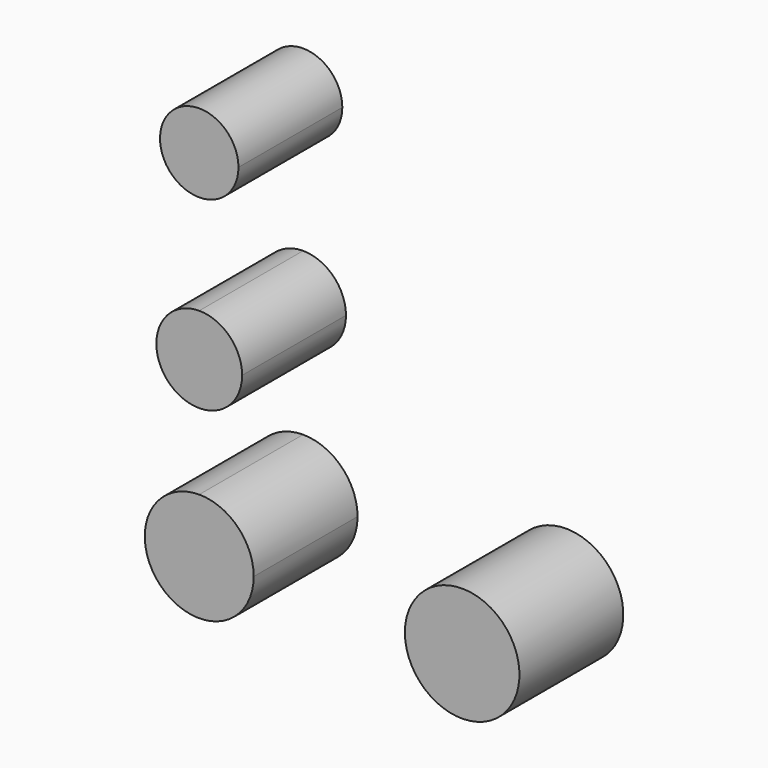
from build123d import *

# Parameters (mm, degrees)
F1_DEPTH = 25.4


with BuildPart() as f1:
    # F0 (on Front) → F1 (new body)
    with BuildSketch(Plane.XZ):
        with BuildLine():
            ThreePointArc((11.207146, -14.010969), (0, -2.803823), (-11.207146, -14.010969))
            ThreePointArc((-11.207146, -14.010969), (0, -25.218115), (11.207146, -14.010969))
        make_face()
        with BuildLine():
            ThreePointArc((-40.779477, -14.010969), (-43.900408, -6.476375), (-51.435001, -3.355445))
            Line((-51.435001, -3.355445), (-51.435001, -14.010969))
            Line((-51.435001, -14.010969), (-40.779477, -14.010969))
        make_face()
        with BuildLine():
            Line((-51.435001, -14.010969), (-51.435001, -3.355445))
            ThreePointArc((-51.435001, -3.355445), (-58.969595, -21.545562), (-40.779477, -14.010969))
            Line((-40.779477, -14.010969), (-51.435001, -14.010969))
        make_face()
        with BuildLine():
            ThreePointArc((-43.046736, 19.910323), (-45.503602, 25.841721), (-51.435001, 28.298587))
            Line((-51.435001, 28.298587), (-51.435001, 19.910323))
            Line((-51.435001, 19.910323), (-51.435001, 11.522058))
            ThreePointArc((-51.435001, 11.522058), (-45.503602, 13.978924), (-43.046736, 19.910323))
        make_face()
        with BuildLine():
            Line((-51.435001, 19.910323), (-51.435001, 28.298587))
            ThreePointArc((-51.435001, 28.298587), (-59.823266, 19.910323), (-51.435001, 11.522058))
            Line((-51.435001, 11.522058), (-51.435001, 19.910323))
        make_face()
        with BuildLine():
            ThreePointArc((-43.762124, 55.490807), (-56.860545, 60.91635), (-51.435001, 47.81793))
            ThreePointArc((-51.435001, 47.81793), (-46.009458, 50.065263), (-43.762124, 55.490807))
        make_face()
    extrude(amount=F1_DEPTH)


solid = f1.part
